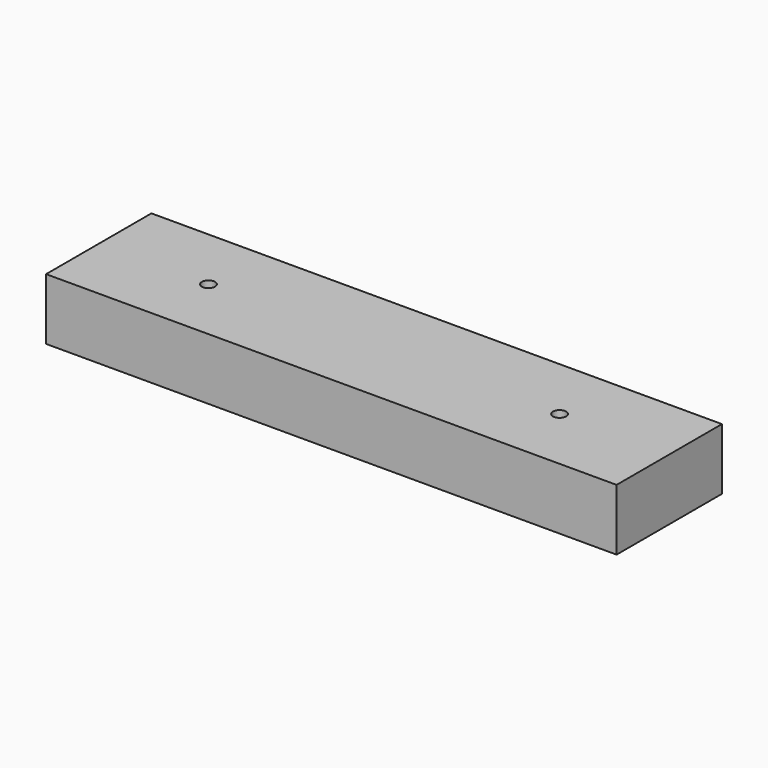
from build123d import *

# Parameters (mm, degrees)
SKETCH_W  = 130
SKETCH_H  = 30
SKETCH_R  = 1.5
PAD_DEPTH = 14


with BuildPart() as part:
    # Sketch → Pad (new body)
    with BuildSketch(Plane.XY):
        with Locations((65, 15)):
            Rectangle(SKETCH_W, SKETCH_H)
        with Locations((25, 15)):
            Circle(SKETCH_R, mode=Mode.SUBTRACT)
        with Locations((105, 15)):
            Circle(SKETCH_R, mode=Mode.SUBTRACT)
    extrude(amount=PAD_DEPTH)


solid = part.part
